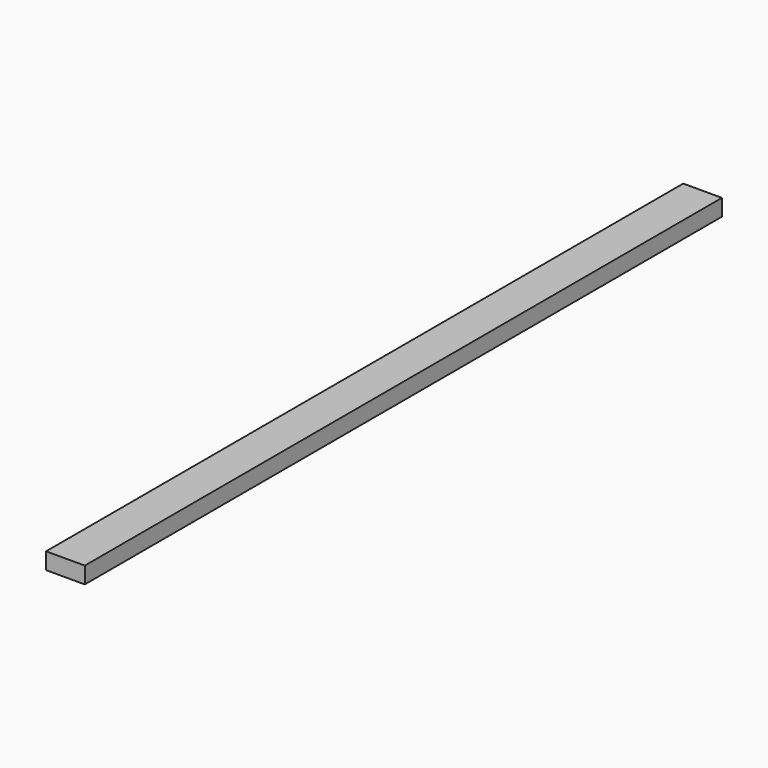
from build123d import *

# Parameters (mm, degrees)
F0_W     = 88.9
F0_H     = 38.1
F1_DEPTH = 1828.8


with BuildPart() as f1:
    # F0 (on Front) → F1 (new body)
    with BuildSketch(Plane.XZ):
        with Locations((44.45, 19.05)):
            Rectangle(F0_W, F0_H)
    extrude(amount=F1_DEPTH)


with BuildPart() as f2_1:
    # F2: copy of F1
    add(f1.part.moved(Location((203.2, 0, 0))))


solid = f1.part
